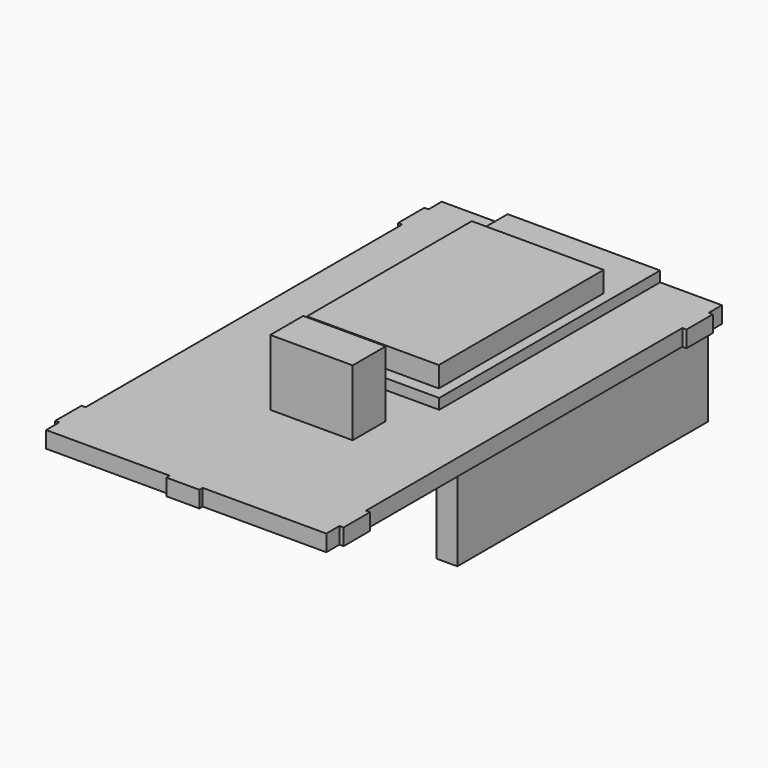
from build123d import *

# Parameters (mm, degrees)
F0_W      = 4
F0_H      = 0.5
F0_W_2    = 0.5
F0_H_2    = 4
F1_DEPTH  = 2
F2_W      = 18.5
F2_H      = 33.5
F3_DEPTH  = 1.27
F4_W      = 16
F4_H      = 25
F5_DEPTH  = 2.5
F6_W      = 10
F6_H      = 5
F7_DEPTH  = 8
F8_W      = 10
F8_H      = 5
F9_DEPTH  = 1
F10_W     = 2.5
F10_H     = 30.5
F10_H_2   = 38
F11_DEPTH = 10


with BuildPart() as f1:
    # F0 (on Top) → F1 (new body)
    with BuildSketch(Plane.XY):
        Polygon((2, -30), (17, -30), (17, -28), (17, -24), (17, 24), (17, 28), (17, 30), (2, 30), (-2, 30), (-17, 30), (-17, 28), (-17, 24), (-17, -24), (-17, -28), (-17, -30), (-2, -30), align=None)
        with Locations((0, -30.25)):
            Rectangle(F0_W, F0_H)
        with Locations((17.25, -26)):
            Rectangle(F0_W_2, F0_H_2)
        with Locations((17.25, 26)):
            Rectangle(F0_W_2, F0_H_2)
        with Locations((-17.25, -26)):
            Rectangle(F0_W_2, F0_H_2)
        with Locations((-17.25, 26)):
            Rectangle(F0_W_2, F0_H_2)
        with Locations((0, 30.25)):
            Rectangle(F0_W, F0_H)
    extrude(amount=F1_DEPTH)


with BuildPart() as f3:
    # F2 (on face) → F3 (new body)
    with BuildSketch(Plane.XY.offset(2)):
        with Locations((0.25, 13.25)):
            Rectangle(F2_W, F2_H)
    extrude(amount=F3_DEPTH)


with BuildPart() as f5:
    # F4 (on face) → F5 (new body)
    with BuildSketch(Plane.XY.offset(3.27)):
        with Locations((0.25, 10.5)):
            Rectangle(F4_W, F4_H)
    extrude(amount=F5_DEPTH)


with BuildPart() as f7:
    # F6 (on face) → F7 (new body)
    with BuildSketch(Plane.XY.offset(2)):
        with Locations((2, -11)):
            Rectangle(F6_W, F6_H)
    extrude(amount=F7_DEPTH)


with BuildPart() as f9:
    # F8 (on face) → F9 (new body)
    with BuildSketch(Plane(origin=(0, 0, 0), x_dir=(1, 0, 0), z_dir=(0, 0, -1))):
        with Locations((2, 11)):
            Rectangle(F8_W, F8_H)
    extrude(amount=F9_DEPTH)


with BuildPart() as f11:
    # F10 (on face) → F11 (new body)
    with BuildSketch(Plane(origin=(0, 0, 0), x_dir=(1, 0, 0), z_dir=(0, 0, -1))):
        with Locations((-15.25, -5.25)):
            Rectangle(F10_W, F10_H)
        with Locations((15.25, -9.5)):
            Rectangle(F10_W, F10_H_2)
    extrude(amount=F11_DEPTH)


solid = Compound([f1.part, f3.part, f5.part, f7.part, f9.part, f11.part])
